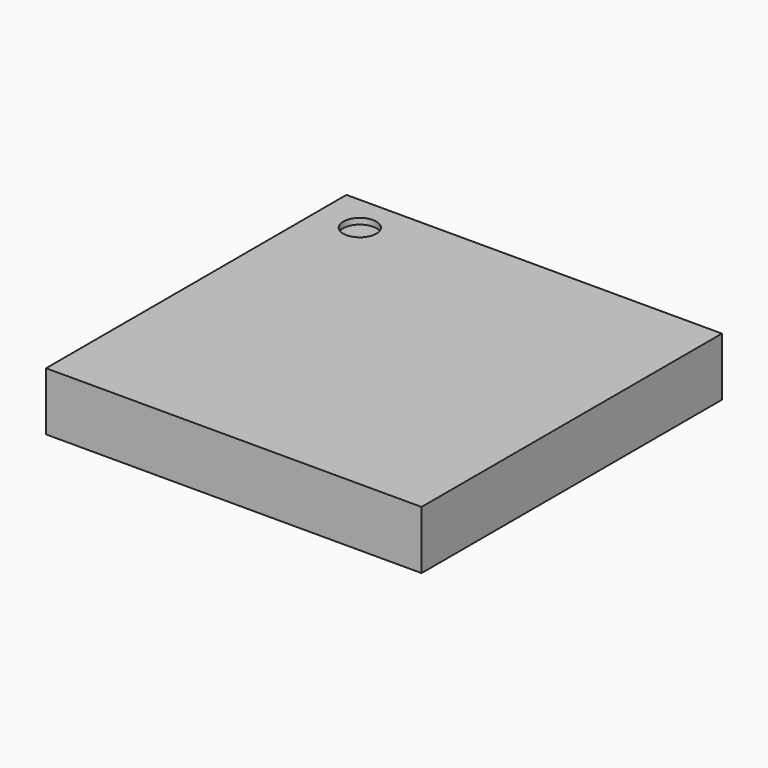
from build123d import *

# Parameters (mm, degrees)
F0_W     = 19
F0_H     = 19
F1_DEPTH = 2.95
F2_R     = 0.835702
F3_DEPTH = 0.3
F4_R     = 0.3
F5_DEPTH = 0.25


with BuildPart() as f1:
    # F0 (on Top) → F1 (new body)
    with BuildSketch(Plane.XY):
        Rectangle(F0_W, F0_H)
    extrude(amount=F1_DEPTH)

    # F2 (on face) → F3 (cut)
    with BuildSketch(Plane.XY.offset(2.95)):
        with Locations((-7.337579, 7.641694)):
            Circle(F2_R)
    extrude(amount=-F3_DEPTH, mode=Mode.SUBTRACT)

    # F4 (on face) → F5 (join)
    with BuildSketch(Plane(origin=(0, 0, 0), x_dir=(1, 0, 0), z_dir=(0, 0, -1))):
        with Locations((-8.459845, 8.627993)):
            Circle(F4_R)
        with Locations((-7.659845, 8.627993)):
            Circle(F4_R)
        with Locations((-6.859845, 8.627993)):
            Circle(F4_R)
        with Locations((-6.059845, 8.627993)):
            Circle(F4_R)
        with Locations((-5.259845, 8.627993)):
            Circle(F4_R)
        with Locations((-4.459845, 8.627993)):
            Circle(F4_R)
        with Locations((-3.659845, 8.627993)):
            Circle(F4_R)
        with Locations((-2.859845, 8.627993)):
            Circle(F4_R)
        with Locations((-2.059845, 8.627993)):
            Circle(F4_R)
        with Locations((-1.259845, 8.627993)):
            Circle(F4_R)
        with Locations((-0.459845, 8.627993)):
            Circle(F4_R)
        with Locations((0.340155, 8.627993)):
            Circle(F4_R)
        with Locations((1.140155, 8.627993)):
            Circle(F4_R)
        with Locations((1.940155, 8.627993)):
            Circle(F4_R)
        with Locations((2.740155, 8.627993)):
            Circle(F4_R)
        with Locations((3.540155, 8.627993)):
            Circle(F4_R)
        with Locations((4.340155, 8.627993)):
            Circle(F4_R)
        with Locations((5.140155, 8.627993)):
            Circle(F4_R)
        with Locations((5.940155, 8.627993)):
            Circle(F4_R)
        with Locations((6.740155, 8.627993)):
            Circle(F4_R)
        with Locations((7.540155, 8.627993)):
            Circle(F4_R)
        with Locations((8.340155, 8.627993)):
            Circle(F4_R)
        with Locations((-8.459845, 7.827993)):
            Circle(F4_R)
        with Locations((-7.659845, 7.827993)):
            Circle(F4_R)
        with Locations((-6.859845, 7.827993)):
            Circle(F4_R)
        with Locations((-6.059845, 7.827993)):
            Circle(F4_R)
        with Locations((-5.259845, 7.827993)):
            Circle(F4_R)
        with Locations((-4.459845, 7.827993)):
            Circle(F4_R)
        with Locations((-3.659845, 7.827993)):
            Circle(F4_R)
        with Locations((-2.859845, 7.827993)):
            Circle(F4_R)
        with Locations((-2.059845, 7.827993)):
            Circle(F4_R)
        with Locations((-1.259845, 7.827993)):
            Circle(F4_R)
        with Locations((-0.459845, 7.827993)):
            Circle(F4_R)
        with Locations((0.340155, 7.827993)):
            Circle(F4_R)
        with Locations((1.940155, 7.827993)):
            Circle(F4_R)
        with Locations((2.740155, 7.827993)):
            Circle(F4_R)
        with Locations((1.140155, 7.827993)):
            Circle(F4_R)
        with Locations((3.540155, 7.827993)):
            Circle(F4_R)
        with Locations((4.340155, 7.827993)):
            Circle(F4_R)
        with Locations((5.140155, 7.827993)):
            Circle(F4_R)
        with Locations((5.940155, 7.827993)):
            Circle(F4_R)
        with Locations((6.740155, 7.827993)):
            Circle(F4_R)
        with Locations((7.540155, 7.827993)):
            Circle(F4_R)
        with Locations((8.340155, 7.827993)):
            Circle(F4_R)
        with Locations((-8.459845, 7.027993)):
            Circle(F4_R)
        with Locations((-7.659845, 7.027993)):
            Circle(F4_R)
        with Locations((-6.859845, 7.027993)):
            Circle(F4_R)
        with Locations((-6.059845, 7.027993)):
            Circle(F4_R)
        with Locations((-5.259845, 7.027993)):
            Circle(F4_R)
        with Locations((-4.459845, 7.027993)):
            Circle(F4_R)
        with Locations((-3.659845, 7.027993)):
            Circle(F4_R)
        with Locations((-2.859845, 7.027993)):
            Circle(F4_R)
        with Locations((-2.059845, 7.027993)):
            Circle(F4_R)
        with Locations((-1.259845, 7.027993)):
            Circle(F4_R)
        with Locations((-0.459845, 7.027993)):
            Circle(F4_R)
        with Locations((0.340155, 7.027993)):
            Circle(F4_R)
        with Locations((1.940155, 7.027993)):
            Circle(F4_R)
        with Locations((2.740155, 7.027993)):
            Circle(F4_R)
        with Locations((1.140155, 7.027993)):
            Circle(F4_R)
        with Locations((3.540155, 7.027993)):
            Circle(F4_R)
        with Locations((4.340155, 7.027993)):
            Circle(F4_R)
        with Locations((5.140155, 7.027993)):
            Circle(F4_R)
        with Locations((5.940155, 7.027993)):
            Circle(F4_R)
        with Locations((6.740155, 7.027993)):
            Circle(F4_R)
        with Locations((7.540155, 7.027993)):
            Circle(F4_R)
        with Locations((8.340155, 7.027993)):
            Circle(F4_R)
        with Locations((-8.459845, 6.227993)):
            Circle(F4_R)
        with Locations((-7.659845, 6.227993)):
            Circle(F4_R)
        with Locations((-6.859845, 6.227993)):
            Circle(F4_R)
        with Locations((-6.059845, 6.227993)):
            Circle(F4_R)
        with Locations((-5.259845, 6.227993)):
            Circle(F4_R)
        with Locations((-4.459845, 6.227993)):
            Circle(F4_R)
        with Locations((-3.659845, 6.227993)):
            Circle(F4_R)
        with Locations((-2.859845, 6.227993)):
            Circle(F4_R)
        with Locations((-2.059845, 6.227993)):
            Circle(F4_R)
        with Locations((-1.259845, 6.227993)):
            Circle(F4_R)
        with Locations((-0.459845, 6.227993)):
            Circle(F4_R)
        with Locations((0.340155, 6.227993)):
            Circle(F4_R)
        with Locations((1.940155, 6.227993)):
            Circle(F4_R)
        with Locations((2.740155, 6.227993)):
            Circle(F4_R)
        with Locations((1.140155, 6.227993)):
            Circle(F4_R)
        with Locations((3.540155, 6.227993)):
            Circle(F4_R)
        with Locations((4.340155, 6.227993)):
            Circle(F4_R)
        with Locations((5.140155, 6.227993)):
            Circle(F4_R)
        with Locations((5.940155, 6.227993)):
            Circle(F4_R)
        with Locations((6.740155, 6.227993)):
            Circle(F4_R)
        with Locations((7.540155, 6.227993)):
            Circle(F4_R)
        with Locations((8.340155, 6.227993)):
            Circle(F4_R)
        with Locations((-8.459845, 5.427993)):
            Circle(F4_R)
        with Locations((-7.659845, 5.427993)):
            Circle(F4_R)
        with Locations((-6.859845, 5.427993)):
            Circle(F4_R)
        with Locations((-6.059845, 5.427993)):
            Circle(F4_R)
        with Locations((-5.259845, 5.427993)):
            Circle(F4_R)
        with Locations((-4.459845, 5.427993)):
            Circle(F4_R)
        with Locations((-3.659845, 5.427993)):
            Circle(F4_R)
        with Locations((-2.859845, 5.427993)):
            Circle(F4_R)
        with Locations((-2.059845, 5.427993)):
            Circle(F4_R)
        with Locations((-1.259845, 5.427993)):
            Circle(F4_R)
        with Locations((-0.459845, 5.427993)):
            Circle(F4_R)
        with Locations((0.340155, 5.427993)):
            Circle(F4_R)
        with Locations((1.940155, 5.427993)):
            Circle(F4_R)
        with Locations((2.740155, 5.427993)):
            Circle(F4_R)
        with Locations((1.140155, 5.427993)):
            Circle(F4_R)
        with Locations((3.540155, 5.427993)):
            Circle(F4_R)
        with Locations((4.340155, 5.427993)):
            Circle(F4_R)
        with Locations((5.140155, 5.427993)):
            Circle(F4_R)
        with Locations((5.940155, 5.427993)):
            Circle(F4_R)
        with Locations((6.740155, 5.427993)):
            Circle(F4_R)
        with Locations((7.540155, 5.427993)):
            Circle(F4_R)
        with Locations((8.340155, 5.427993)):
            Circle(F4_R)
        with Locations((-8.459845, 4.627993)):
            Circle(F4_R)
        with Locations((-7.659845, 4.627993)):
            Circle(F4_R)
        with Locations((-6.859845, 4.627993)):
            Circle(F4_R)
        with Locations((-6.059845, 4.627993)):
            Circle(F4_R)
        with Locations((-5.259845, 4.627993)):
            Circle(F4_R)
        with Locations((-4.459845, 4.627993)):
            Circle(F4_R)
        with Locations((-3.659845, 4.627993)):
            Circle(F4_R)
        with Locations((-2.859845, 4.627993)):
            Circle(F4_R)
        with Locations((-2.059845, 4.627993)):
            Circle(F4_R)
        with Locations((-1.259845, 4.627993)):
            Circle(F4_R)
        with Locations((-0.459845, 4.627993)):
            Circle(F4_R)
        with Locations((0.340155, 4.627993)):
            Circle(F4_R)
        with Locations((1.940155, 4.627993)):
            Circle(F4_R)
        with Locations((2.740155, 4.627993)):
            Circle(F4_R)
        with Locations((1.140155, 4.627993)):
            Circle(F4_R)
        with Locations((3.540155, 4.627993)):
            Circle(F4_R)
        with Locations((4.340155, 4.627993)):
            Circle(F4_R)
        with Locations((5.140155, 4.627993)):
            Circle(F4_R)
        with Locations((5.940155, 4.627993)):
            Circle(F4_R)
        with Locations((6.740155, 4.627993)):
            Circle(F4_R)
        with Locations((7.540155, 4.627993)):
            Circle(F4_R)
        with Locations((8.340155, 4.627993)):
            Circle(F4_R)
        with Locations((-8.459845, 3.827993)):
            Circle(F4_R)
        with Locations((-7.659845, 3.827993)):
            Circle(F4_R)
        with Locations((-6.859845, 3.827993)):
            Circle(F4_R)
        with Locations((-6.059845, 3.827993)):
            Circle(F4_R)
        with Locations((-5.259845, 3.827993)):
            Circle(F4_R)
        with Locations((-4.459845, 3.827993)):
            Circle(F4_R)
        with Locations((-3.659845, 3.827993)):
            Circle(F4_R)
        with Locations((-2.859845, 3.827993)):
            Circle(F4_R)
        with Locations((-2.059845, 3.827993)):
            Circle(F4_R)
        with Locations((-1.259845, 3.827993)):
            Circle(F4_R)
        with Locations((-0.459845, 3.827993)):
            Circle(F4_R)
        with Locations((0.340155, 3.827993)):
            Circle(F4_R)
        with Locations((1.940155, 3.827993)):
            Circle(F4_R)
        with Locations((2.740155, 3.827993)):
            Circle(F4_R)
        with Locations((1.140155, 3.827993)):
            Circle(F4_R)
        with Locations((3.540155, 3.827993)):
            Circle(F4_R)
        with Locations((4.340155, 3.827993)):
            Circle(F4_R)
        with Locations((5.140155, 3.827993)):
            Circle(F4_R)
        with Locations((5.940155, 3.827993)):
            Circle(F4_R)
        with Locations((6.740155, 3.827993)):
            Circle(F4_R)
        with Locations((7.540155, 3.827993)):
            Circle(F4_R)
        with Locations((8.340155, 3.827993)):
            Circle(F4_R)
        with Locations((-8.459845, 3.027993)):
            Circle(F4_R)
        with Locations((-7.659845, 3.027993)):
            Circle(F4_R)
        with Locations((-6.859845, 3.027993)):
            Circle(F4_R)
        with Locations((-6.059845, 3.027993)):
            Circle(F4_R)
        with Locations((-5.259845, 3.027993)):
            Circle(F4_R)
        with Locations((-4.459845, 3.027993)):
            Circle(F4_R)
        with Locations((-3.659845, 3.027993)):
            Circle(F4_R)
        with Locations((-2.859845, 3.027993)):
            Circle(F4_R)
        with Locations((-2.059845, 3.027993)):
            Circle(F4_R)
        with Locations((-1.259845, 3.027993)):
            Circle(F4_R)
        with Locations((-0.459845, 3.027993)):
            Circle(F4_R)
        with Locations((0.340155, 3.027993)):
            Circle(F4_R)
        with Locations((1.940155, 3.027993)):
            Circle(F4_R)
        with Locations((2.740155, 3.027993)):
            Circle(F4_R)
        with Locations((1.140155, 3.027993)):
            Circle(F4_R)
        with Locations((3.540155, 3.027993)):
            Circle(F4_R)
        with Locations((4.340155, 3.027993)):
            Circle(F4_R)
        with Locations((5.140155, 3.027993)):
            Circle(F4_R)
        with Locations((5.940155, 3.027993)):
            Circle(F4_R)
        with Locations((6.740155, 3.027993)):
            Circle(F4_R)
        with Locations((7.540155, 3.027993)):
            Circle(F4_R)
        with Locations((8.340155, 3.027993)):
            Circle(F4_R)
        with Locations((-8.459845, 2.227993)):
            Circle(F4_R)
        with Locations((-7.659845, 2.227993)):
            Circle(F4_R)
        with Locations((-6.859845, 2.227993)):
            Circle(F4_R)
        with Locations((-6.059845, 2.227993)):
            Circle(F4_R)
        with Locations((-5.259845, 2.227993)):
            Circle(F4_R)
        with Locations((-4.459845, 2.227993)):
            Circle(F4_R)
        with Locations((-3.659845, 2.227993)):
            Circle(F4_R)
        with Locations((-2.859845, 2.227993)):
            Circle(F4_R)
        with Locations((-2.059845, 2.227993)):
            Circle(F4_R)
        with Locations((-1.259845, 2.227993)):
            Circle(F4_R)
        with Locations((-0.459845, 2.227993)):
            Circle(F4_R)
        with Locations((0.340155, 2.227993)):
            Circle(F4_R)
        with Locations((1.940155, 2.227993)):
            Circle(F4_R)
        with Locations((2.740155, 2.227993)):
            Circle(F4_R)
        with Locations((1.140155, 2.227993)):
            Circle(F4_R)
        with Locations((3.540155, 2.227993)):
            Circle(F4_R)
        with Locations((4.340155, 2.227993)):
            Circle(F4_R)
        with Locations((5.140155, 2.227993)):
            Circle(F4_R)
        with Locations((5.940155, 2.227993)):
            Circle(F4_R)
        with Locations((6.740155, 2.227993)):
            Circle(F4_R)
        with Locations((7.540155, 2.227993)):
            Circle(F4_R)
        with Locations((8.340155, 2.227993)):
            Circle(F4_R)
        with Locations((-8.459845, 1.427993)):
            Circle(F4_R)
        with Locations((-7.659845, 1.427993)):
            Circle(F4_R)
        with Locations((-6.859845, 1.427993)):
            Circle(F4_R)
        with Locations((-6.059845, 1.427993)):
            Circle(F4_R)
        with Locations((-5.259845, 1.427993)):
            Circle(F4_R)
        with Locations((-4.459845, 1.427993)):
            Circle(F4_R)
        with Locations((-3.659845, 1.427993)):
            Circle(F4_R)
        with Locations((-2.859845, 1.427993)):
            Circle(F4_R)
        with Locations((-2.059845, 1.427993)):
            Circle(F4_R)
        with Locations((-1.259845, 1.427993)):
            Circle(F4_R)
        with Locations((-0.459845, 1.427993)):
            Circle(F4_R)
        with Locations((0.340155, 1.427993)):
            Circle(F4_R)
        with Locations((1.940155, 1.427993)):
            Circle(F4_R)
        with Locations((2.740155, 1.427993)):
            Circle(F4_R)
        with Locations((1.140155, 1.427993)):
            Circle(F4_R)
        with Locations((3.540155, 1.427993)):
            Circle(F4_R)
        with Locations((4.340155, 1.427993)):
            Circle(F4_R)
        with Locations((5.140155, 1.427993)):
            Circle(F4_R)
        with Locations((5.940155, 1.427993)):
            Circle(F4_R)
        with Locations((6.740155, 1.427993)):
            Circle(F4_R)
        with Locations((7.540155, 1.427993)):
            Circle(F4_R)
        with Locations((8.340155, 1.427993)):
            Circle(F4_R)
        with Locations((-8.459845, 0.627993)):
            Circle(F4_R)
        with Locations((-7.659845, 0.627993)):
            Circle(F4_R)
        with Locations((-6.859845, 0.627993)):
            Circle(F4_R)
        with Locations((-6.059845, 0.627993)):
            Circle(F4_R)
        with Locations((-5.259845, 0.627993)):
            Circle(F4_R)
        with Locations((-4.459845, 0.627993)):
            Circle(F4_R)
        with Locations((-3.659845, 0.627993)):
            Circle(F4_R)
        with Locations((-2.859845, 0.627993)):
            Circle(F4_R)
        with Locations((-2.059845, 0.627993)):
            Circle(F4_R)
        with Locations((-1.259845, 0.627993)):
            Circle(F4_R)
        with Locations((-0.459845, 0.627993)):
            Circle(F4_R)
        with Locations((0.340155, 0.627993)):
            Circle(F4_R)
        with Locations((1.940155, 0.627993)):
            Circle(F4_R)
        with Locations((2.740155, 0.627993)):
            Circle(F4_R)
        with Locations((1.140155, 0.627993)):
            Circle(F4_R)
        with Locations((3.540155, 0.627993)):
            Circle(F4_R)
        with Locations((4.340155, 0.627993)):
            Circle(F4_R)
        with Locations((5.140155, 0.627993)):
            Circle(F4_R)
        with Locations((5.940155, 0.627993)):
            Circle(F4_R)
        with Locations((6.740155, 0.627993)):
            Circle(F4_R)
        with Locations((7.540155, 0.627993)):
            Circle(F4_R)
        with Locations((8.340155, 0.627993)):
            Circle(F4_R)
        with Locations((-8.459845, -0.172007)):
            Circle(F4_R)
        with Locations((-7.659845, -0.172007)):
            Circle(F4_R)
        with Locations((-6.859845, -0.172007)):
            Circle(F4_R)
        with Locations((-6.059845, -0.172007)):
            Circle(F4_R)
        with Locations((-5.259845, -0.172007)):
            Circle(F4_R)
        with Locations((-4.459845, -0.172007)):
            Circle(F4_R)
        with Locations((-3.659845, -0.172007)):
            Circle(F4_R)
        with Locations((-2.859845, -0.172007)):
            Circle(F4_R)
        with Locations((-2.059845, -0.172007)):
            Circle(F4_R)
        with Locations((-1.259845, -0.172007)):
            Circle(F4_R)
        with Locations((-0.459845, -0.172007)):
            Circle(F4_R)
        with Locations((0.340155, -0.172007)):
            Circle(F4_R)
        with Locations((1.940155, -0.172007)):
            Circle(F4_R)
        with Locations((2.740155, -0.172007)):
            Circle(F4_R)
        with Locations((1.140155, -0.172007)):
            Circle(F4_R)
        with Locations((3.540155, -0.172007)):
            Circle(F4_R)
        with Locations((4.340155, -0.172007)):
            Circle(F4_R)
        with Locations((5.140155, -0.172007)):
            Circle(F4_R)
        with Locations((5.940155, -0.172007)):
            Circle(F4_R)
        with Locations((6.740155, -0.172007)):
            Circle(F4_R)
        with Locations((7.540155, -0.172007)):
            Circle(F4_R)
        with Locations((8.340155, -0.172007)):
            Circle(F4_R)
        with Locations((-8.459845, -0.972007)):
            Circle(F4_R)
        with Locations((-7.659845, -0.972007)):
            Circle(F4_R)
        with Locations((-6.859845, -0.972007)):
            Circle(F4_R)
        with Locations((-6.059845, -0.972007)):
            Circle(F4_R)
        with Locations((-5.259845, -0.972007)):
            Circle(F4_R)
        with Locations((-4.459845, -0.972007)):
            Circle(F4_R)
        with Locations((-3.659845, -0.972007)):
            Circle(F4_R)
        with Locations((-2.859845, -0.972007)):
            Circle(F4_R)
        with Locations((-2.059845, -0.972007)):
            Circle(F4_R)
        with Locations((-1.259845, -0.972007)):
            Circle(F4_R)
        with Locations((-0.459845, -0.972007)):
            Circle(F4_R)
        with Locations((0.340155, -0.972007)):
            Circle(F4_R)
        with Locations((1.940155, -0.972007)):
            Circle(F4_R)
        with Locations((2.740155, -0.972007)):
            Circle(F4_R)
        with Locations((1.140155, -0.972007)):
            Circle(F4_R)
        with Locations((3.540155, -0.972007)):
            Circle(F4_R)
        with Locations((4.340155, -0.972007)):
            Circle(F4_R)
        with Locations((5.140155, -0.972007)):
            Circle(F4_R)
        with Locations((5.940155, -0.972007)):
            Circle(F4_R)
        with Locations((6.740155, -0.972007)):
            Circle(F4_R)
        with Locations((7.540155, -0.972007)):
            Circle(F4_R)
        with Locations((8.340155, -0.972007)):
            Circle(F4_R)
        with Locations((-8.459845, -1.772007)):
            Circle(F4_R)
        with Locations((-7.659845, -1.772007)):
            Circle(F4_R)
        with Locations((-6.859845, -1.772007)):
            Circle(F4_R)
        with Locations((-6.059845, -1.772007)):
            Circle(F4_R)
        with Locations((-5.259845, -1.772007)):
            Circle(F4_R)
        with Locations((-4.459845, -1.772007)):
            Circle(F4_R)
        with Locations((-3.659845, -1.772007)):
            Circle(F4_R)
        with Locations((-2.859845, -1.772007)):
            Circle(F4_R)
        with Locations((-2.059845, -1.772007)):
            Circle(F4_R)
        with Locations((-1.259845, -1.772007)):
            Circle(F4_R)
        with Locations((-0.459845, -1.772007)):
            Circle(F4_R)
        with Locations((0.340155, -1.772007)):
            Circle(F4_R)
        with Locations((1.940155, -1.772007)):
            Circle(F4_R)
        with Locations((2.740155, -1.772007)):
            Circle(F4_R)
        with Locations((1.140155, -1.772007)):
            Circle(F4_R)
        with Locations((3.540155, -1.772007)):
            Circle(F4_R)
        with Locations((4.340155, -1.772007)):
            Circle(F4_R)
        with Locations((5.140155, -1.772007)):
            Circle(F4_R)
        with Locations((5.940155, -1.772007)):
            Circle(F4_R)
        with Locations((6.740155, -1.772007)):
            Circle(F4_R)
        with Locations((7.540155, -1.772007)):
            Circle(F4_R)
        with Locations((8.340155, -1.772007)):
            Circle(F4_R)
        with Locations((-8.459845, -2.572007)):
            Circle(F4_R)
        with Locations((-7.659845, -2.572007)):
            Circle(F4_R)
        with Locations((-6.859845, -2.572007)):
            Circle(F4_R)
        with Locations((-6.059845, -2.572007)):
            Circle(F4_R)
        with Locations((-5.259845, -2.572007)):
            Circle(F4_R)
        with Locations((-4.459845, -2.572007)):
            Circle(F4_R)
        with Locations((-3.659845, -2.572007)):
            Circle(F4_R)
        with Locations((-2.859845, -2.572007)):
            Circle(F4_R)
        with Locations((-2.059845, -2.572007)):
            Circle(F4_R)
        with Locations((-1.259845, -2.572007)):
            Circle(F4_R)
        with Locations((-0.459845, -2.572007)):
            Circle(F4_R)
        with Locations((0.340155, -2.572007)):
            Circle(F4_R)
        with Locations((1.940155, -2.572007)):
            Circle(F4_R)
        with Locations((2.740155, -2.572007)):
            Circle(F4_R)
        with Locations((1.140155, -2.572007)):
            Circle(F4_R)
        with Locations((3.540155, -2.572007)):
            Circle(F4_R)
        with Locations((4.340155, -2.572007)):
            Circle(F4_R)
        with Locations((5.140155, -2.572007)):
            Circle(F4_R)
        with Locations((5.940155, -2.572007)):
            Circle(F4_R)
        with Locations((6.740155, -2.572007)):
            Circle(F4_R)
        with Locations((7.540155, -2.572007)):
            Circle(F4_R)
        with Locations((8.340155, -2.572007)):
            Circle(F4_R)
        with Locations((-8.459845, -3.372007)):
            Circle(F4_R)
        with Locations((-7.659845, -3.372007)):
            Circle(F4_R)
        with Locations((-6.859845, -3.372007)):
            Circle(F4_R)
        with Locations((-6.059845, -3.372007)):
            Circle(F4_R)
        with Locations((-5.259845, -3.372007)):
            Circle(F4_R)
        with Locations((-4.459845, -3.372007)):
            Circle(F4_R)
        with Locations((-3.659845, -3.372007)):
            Circle(F4_R)
        with Locations((-2.859845, -3.372007)):
            Circle(F4_R)
        with Locations((-2.059845, -3.372007)):
            Circle(F4_R)
        with Locations((-1.259845, -3.372007)):
            Circle(F4_R)
        with Locations((-0.459845, -3.372007)):
            Circle(F4_R)
        with Locations((0.340155, -3.372007)):
            Circle(F4_R)
        with Locations((1.940155, -3.372007)):
            Circle(F4_R)
        with Locations((2.740155, -3.372007)):
            Circle(F4_R)
        with Locations((1.140155, -3.372007)):
            Circle(F4_R)
        with Locations((3.540155, -3.372007)):
            Circle(F4_R)
        with Locations((4.340155, -3.372007)):
            Circle(F4_R)
        with Locations((5.140155, -3.372007)):
            Circle(F4_R)
        with Locations((5.940155, -3.372007)):
            Circle(F4_R)
        with Locations((6.740155, -3.372007)):
            Circle(F4_R)
        with Locations((7.540155, -3.372007)):
            Circle(F4_R)
        with Locations((8.340155, -3.372007)):
            Circle(F4_R)
        with Locations((-8.459845, -4.172007)):
            Circle(F4_R)
        with Locations((-7.659845, -4.172007)):
            Circle(F4_R)
        with Locations((-6.859845, -4.172007)):
            Circle(F4_R)
        with Locations((-6.059845, -4.172007)):
            Circle(F4_R)
        with Locations((-5.259845, -4.172007)):
            Circle(F4_R)
        with Locations((-4.459845, -4.172007)):
            Circle(F4_R)
        with Locations((-3.659845, -4.172007)):
            Circle(F4_R)
        with Locations((-2.859845, -4.172007)):
            Circle(F4_R)
        with Locations((-2.059845, -4.172007)):
            Circle(F4_R)
        with Locations((-1.259845, -4.172007)):
            Circle(F4_R)
        with Locations((-0.459845, -4.172007)):
            Circle(F4_R)
        with Locations((0.340155, -4.172007)):
            Circle(F4_R)
        with Locations((1.940155, -4.172007)):
            Circle(F4_R)
        with Locations((2.740155, -4.172007)):
            Circle(F4_R)
        with Locations((1.140155, -4.172007)):
            Circle(F4_R)
        with Locations((3.540155, -4.172007)):
            Circle(F4_R)
        with Locations((4.340155, -4.172007)):
            Circle(F4_R)
        with Locations((5.140155, -4.172007)):
            Circle(F4_R)
        with Locations((5.940155, -4.172007)):
            Circle(F4_R)
        with Locations((6.740155, -4.172007)):
            Circle(F4_R)
        with Locations((7.540155, -4.172007)):
            Circle(F4_R)
        with Locations((8.340155, -4.172007)):
            Circle(F4_R)
        with Locations((-8.459845, -4.972007)):
            Circle(F4_R)
        with Locations((-7.659845, -4.972007)):
            Circle(F4_R)
        with Locations((-6.859845, -4.972007)):
            Circle(F4_R)
        with Locations((-6.059845, -4.972007)):
            Circle(F4_R)
        with Locations((-5.259845, -4.972007)):
            Circle(F4_R)
        with Locations((-4.459845, -4.972007)):
            Circle(F4_R)
        with Locations((-3.659845, -4.972007)):
            Circle(F4_R)
        with Locations((-2.859845, -4.972007)):
            Circle(F4_R)
        with Locations((-2.059845, -4.972007)):
            Circle(F4_R)
        with Locations((-1.259845, -4.972007)):
            Circle(F4_R)
        with Locations((-0.459845, -4.972007)):
            Circle(F4_R)
        with Locations((0.340155, -4.972007)):
            Circle(F4_R)
        with Locations((1.940155, -4.972007)):
            Circle(F4_R)
        with Locations((2.740155, -4.972007)):
            Circle(F4_R)
        with Locations((1.140155, -4.972007)):
            Circle(F4_R)
        with Locations((3.540155, -4.972007)):
            Circle(F4_R)
        with Locations((4.340155, -4.972007)):
            Circle(F4_R)
        with Locations((5.140155, -4.972007)):
            Circle(F4_R)
        with Locations((5.940155, -4.972007)):
            Circle(F4_R)
        with Locations((6.740155, -4.972007)):
            Circle(F4_R)
        with Locations((7.540155, -4.972007)):
            Circle(F4_R)
        with Locations((8.340155, -4.972007)):
            Circle(F4_R)
        with Locations((-8.459845, -5.772007)):
            Circle(F4_R)
        with Locations((-7.659845, -5.772007)):
            Circle(F4_R)
        with Locations((-6.859845, -5.772007)):
            Circle(F4_R)
        with Locations((-6.059845, -5.772007)):
            Circle(F4_R)
        with Locations((-5.259845, -5.772007)):
            Circle(F4_R)
        with Locations((-4.459845, -5.772007)):
            Circle(F4_R)
        with Locations((-3.659845, -5.772007)):
            Circle(F4_R)
        with Locations((-2.859845, -5.772007)):
            Circle(F4_R)
        with Locations((-2.059845, -5.772007)):
            Circle(F4_R)
        with Locations((-1.259845, -5.772007)):
            Circle(F4_R)
        with Locations((-0.459845, -5.772007)):
            Circle(F4_R)
        with Locations((0.340155, -5.772007)):
            Circle(F4_R)
        with Locations((1.940155, -5.772007)):
            Circle(F4_R)
        with Locations((2.740155, -5.772007)):
            Circle(F4_R)
        with Locations((1.140155, -5.772007)):
            Circle(F4_R)
        with Locations((3.540155, -5.772007)):
            Circle(F4_R)
        with Locations((4.340155, -5.772007)):
            Circle(F4_R)
        with Locations((5.140155, -5.772007)):
            Circle(F4_R)
        with Locations((5.940155, -5.772007)):
            Circle(F4_R)
        with Locations((6.740155, -5.772007)):
            Circle(F4_R)
        with Locations((7.540155, -5.772007)):
            Circle(F4_R)
        with Locations((8.340155, -5.772007)):
            Circle(F4_R)
        with Locations((-8.459845, -6.572007)):
            Circle(F4_R)
        with Locations((-7.659845, -6.572007)):
            Circle(F4_R)
        with Locations((-6.859845, -6.572007)):
            Circle(F4_R)
        with Locations((-6.059845, -6.572007)):
            Circle(F4_R)
        with Locations((-5.259845, -6.572007)):
            Circle(F4_R)
        with Locations((-4.459845, -6.572007)):
            Circle(F4_R)
        with Locations((-3.659845, -6.572007)):
            Circle(F4_R)
        with Locations((-2.859845, -6.572007)):
            Circle(F4_R)
        with Locations((-2.059845, -6.572007)):
            Circle(F4_R)
        with Locations((-1.259845, -6.572007)):
            Circle(F4_R)
        with Locations((-0.459845, -6.572007)):
            Circle(F4_R)
        with Locations((0.340155, -6.572007)):
            Circle(F4_R)
        with Locations((1.940155, -6.572007)):
            Circle(F4_R)
        with Locations((2.740155, -6.572007)):
            Circle(F4_R)
        with Locations((1.140155, -6.572007)):
            Circle(F4_R)
        with Locations((3.540155, -6.572007)):
            Circle(F4_R)
        with Locations((4.340155, -6.572007)):
            Circle(F4_R)
        with Locations((5.140155, -6.572007)):
            Circle(F4_R)
        with Locations((5.940155, -6.572007)):
            Circle(F4_R)
        with Locations((6.740155, -6.572007)):
            Circle(F4_R)
        with Locations((7.540155, -6.572007)):
            Circle(F4_R)
        with Locations((8.340155, -6.572007)):
            Circle(F4_R)
        with Locations((-8.459845, -7.372007)):
            Circle(F4_R)
        with Locations((-7.659845, -7.372007)):
            Circle(F4_R)
        with Locations((-6.859845, -7.372007)):
            Circle(F4_R)
        with Locations((-6.059845, -7.372007)):
            Circle(F4_R)
        with Locations((-5.259845, -7.372007)):
            Circle(F4_R)
        with Locations((-4.459845, -7.372007)):
            Circle(F4_R)
        with Locations((-3.659845, -7.372007)):
            Circle(F4_R)
        with Locations((-2.859845, -7.372007)):
            Circle(F4_R)
        with Locations((-2.059845, -7.372007)):
            Circle(F4_R)
        with Locations((-1.259845, -7.372007)):
            Circle(F4_R)
        with Locations((-0.459845, -7.372007)):
            Circle(F4_R)
        with Locations((0.340155, -7.372007)):
            Circle(F4_R)
        with Locations((1.940155, -7.372007)):
            Circle(F4_R)
        with Locations((2.740155, -7.372007)):
            Circle(F4_R)
        with Locations((1.140155, -7.372007)):
            Circle(F4_R)
        with Locations((3.540155, -7.372007)):
            Circle(F4_R)
        with Locations((4.340155, -7.372007)):
            Circle(F4_R)
        with Locations((5.140155, -7.372007)):
            Circle(F4_R)
        with Locations((5.940155, -7.372007)):
            Circle(F4_R)
        with Locations((6.740155, -7.372007)):
            Circle(F4_R)
        with Locations((7.540155, -7.372007)):
            Circle(F4_R)
        with Locations((8.340155, -7.372007)):
            Circle(F4_R)
        with Locations((-8.459845, -8.172007)):
            Circle(F4_R)
        with Locations((-7.659845, -8.172007)):
            Circle(F4_R)
        with Locations((-6.859845, -8.172007)):
            Circle(F4_R)
        with Locations((-6.059845, -8.172007)):
            Circle(F4_R)
        with Locations((-5.259845, -8.172007)):
            Circle(F4_R)
        with Locations((-4.459845, -8.172007)):
            Circle(F4_R)
        with Locations((-3.659845, -8.172007)):
            Circle(F4_R)
        with Locations((-2.859845, -8.172007)):
            Circle(F4_R)
        with Locations((-2.059845, -8.172007)):
            Circle(F4_R)
        with Locations((-1.259845, -8.172007)):
            Circle(F4_R)
        with Locations((-0.459845, -8.172007)):
            Circle(F4_R)
        with Locations((0.340155, -8.172007)):
            Circle(F4_R)
        with Locations((1.940155, -8.172007)):
            Circle(F4_R)
        with Locations((2.740155, -8.172007)):
            Circle(F4_R)
        with Locations((1.140155, -8.172007)):
            Circle(F4_R)
        with Locations((3.540155, -8.172007)):
            Circle(F4_R)
        with Locations((4.340155, -8.172007)):
            Circle(F4_R)
        with Locations((5.140155, -8.172007)):
            Circle(F4_R)
        with Locations((5.940155, -8.172007)):
            Circle(F4_R)
        with Locations((6.740155, -8.172007)):
            Circle(F4_R)
        with Locations((7.540155, -8.172007)):
            Circle(F4_R)
        with Locations((8.340155, -8.172007)):
            Circle(F4_R)
    extrude(amount=F5_DEPTH)


solid = f1.part
